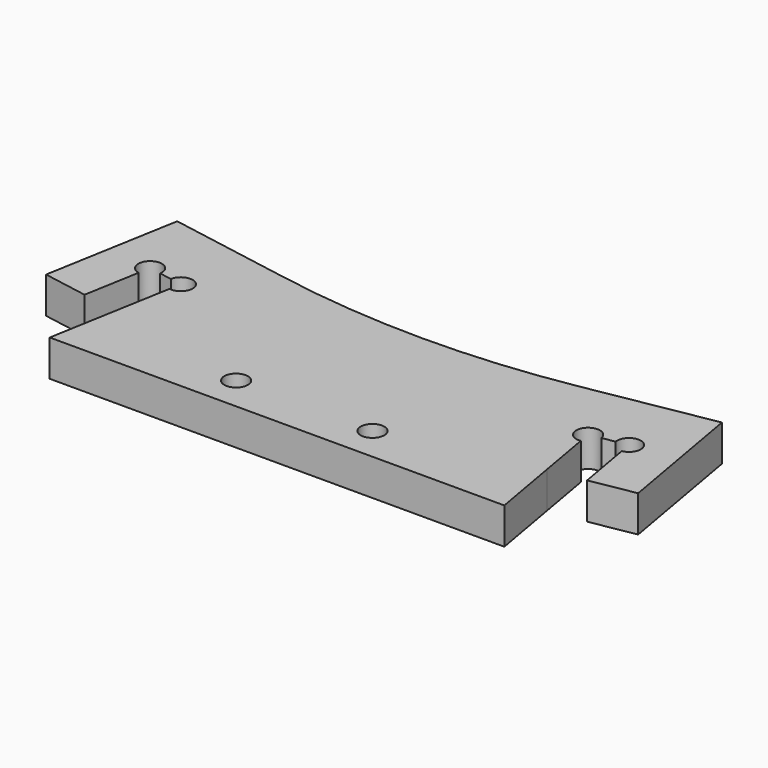
from build123d import *

# Parameters (mm, degrees)
F0_R     = 2.6
F1_DEPTH = 8


with BuildPart() as f1:
    # F0 (on Top) → F1 (new body)
    with BuildSketch(Plane.XY):
        Polygon((-37.200829, 15), (-47.355095, 15), (-50, 0), (50, 0), (47.355095, 15), (37.200829, 15), align=None)
        with Locations((-15, 7.5)):
            Circle(F0_R, mode=Mode.SUBTRACT)
        with Locations((0, 7.5)):
            Circle(F0_R, mode=Mode.SUBTRACT)
        with Locations((15, 7.5)):
            Circle(F0_R, mode=Mode.SUBTRACT)
        with Locations((0, 7.5)):
            Circle(F0_R)
        with BuildLine():
            Line((-45.24204, 26.983732), (-47.355095, 15))
            Line((-47.355095, 15), (-37.200829, 15))
            Line((-37.200829, 15), (-32.337754, 42.579867))
            Line((-32.337754, 42.579867), (-59.912372, 47.442016))
            Line((-59.912372, 47.442016), (-65.121817, 17.897783))
            Line((-65.121817, 17.897783), (-55.273739, 16.161302))
            Line((-55.273739, 16.161302), (-53.120502, 28.372918))
            ThreePointArc((-53.120502, 28.372918), (-54.340264, 32.925134), (-50.069017, 30.933418))
            ThreePointArc((-50.069017, 30.933418), (-50.07891, 30.706813), (-50.108517, 30.481933))
            Line((-50.108517, 30.481933), (-47.351055, 29.995718))
            ThreePointArc((-47.351055, 29.995718), (-44.56395, 32.134339), (-42.190555, 29.544233))
            ThreePointArc((-42.190555, 29.544233), (-43.119307, 27.552517), (-45.24204, 26.983732))
        make_face()
        with BuildLine():
            Line((32.337754, 42.579867), (37.200829, 15))
            Line((37.200829, 15), (47.355095, 15))
            Line((47.355095, 15), (45.24204, 26.983732))
            ThreePointArc((45.24204, 26.983732), (42.660759, 31.035531), (47.351055, 29.995718))
            Line((47.351055, 29.995718), (50.108517, 30.481933))
            ThreePointArc((50.108517, 30.481933), (52.442412, 33.523524), (55.269017, 30.933418))
            ThreePointArc((55.269017, 30.933418), (54.660732, 29.26217), (53.120502, 28.372918))
            Line((53.120502, 28.372918), (55.273739, 16.161302))
            Line((55.273739, 16.161302), (65.121817, 17.897783))
            Line((65.121817, 17.897783), (59.912372, 47.442016))
            Line((59.912372, 47.442016), (32.337754, 42.579867))
        make_face()
        with BuildLine():
            Line((-32.337754, 42.579867), (-37.200829, 15))
            Line((-37.200829, 15), (37.200829, 15))
            Line((37.200829, 15), (32.337754, 42.579867))
            ThreePointArc((32.337754, 42.579867), (0, 39.75068), (-32.337754, 42.579867))
        make_face()
    extrude(amount=F1_DEPTH)


solid = f1.part
